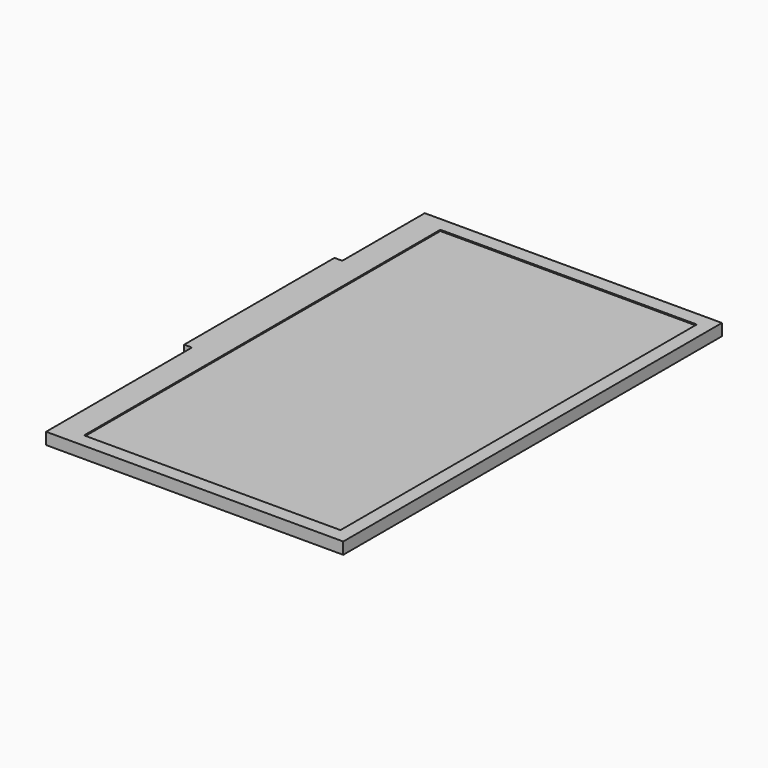
from build123d import *

# Parameters (mm, degrees)
F0_W     = 75.9
F0_H     = 120.9
F1_DEPTH = 3
F2_W     = 65.5
F2_H     = 113.75
F3_DEPTH = 0.3
F4_W     = 48
F4_H     = 3
F5_DEPTH = 2


with BuildPart() as f1:
    # F0 (on Top) → F1 (new body)
    with BuildSketch(Plane.XY):
        with Locations((-2.06492, 0.058994)):
            Rectangle(F0_W, F0_H)
    extrude(amount=F1_DEPTH)

    # F2 (on face) → F3 (cut)
    with BuildSketch(Plane.XY.offset(3)):
        with Locations((-0.36492, -0.016006)):
            Rectangle(F2_W, F2_H)
    extrude(amount=-F3_DEPTH, mode=Mode.SUBTRACT)

    # F4 (on face) → F5 (join)
    with BuildSketch(Plane(origin=(-40.01492, 0, 0), x_dir=(0, -1, 0), z_dir=(-1, 0, 0))):
        with Locations((-10.178994, 1.5)):
            Rectangle(F4_W, F4_H)
    extrude(amount=F5_DEPTH)


solid = f1.part
